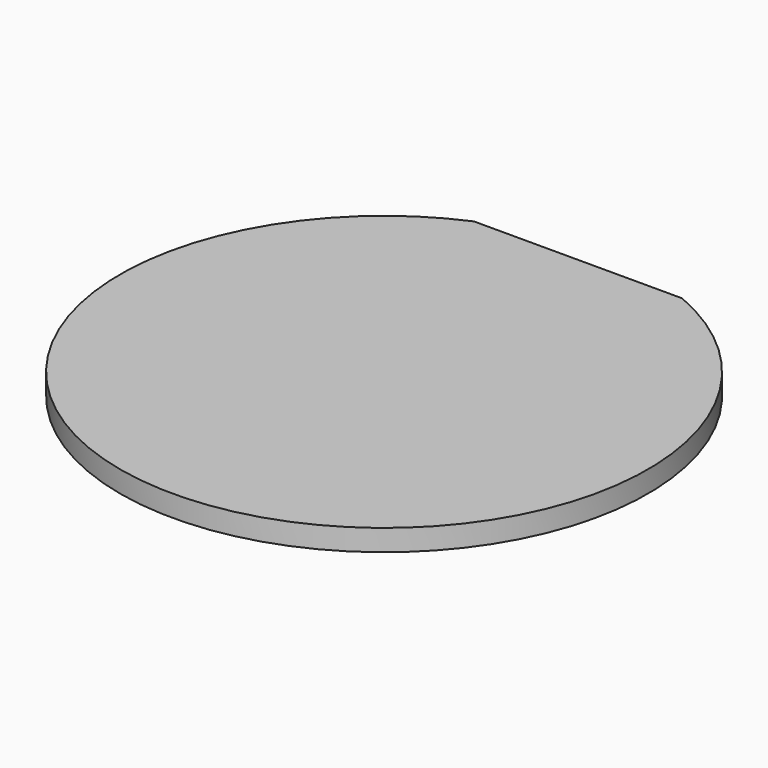
from build123d import *

# Parameters (mm, degrees)
BOX483_W          = 148
BOX483_H          = 20
BOX483_DEPTH      = 34
CYLINDER971_R     = 74
CYLINDER971_DEPTH = 6


with BuildPart() as krychle483:
    # Box483 → Box483 (new body)
    with BuildSketch(Plane(origin=(-74, 68, 38), x_dir=(1, 0, 0), z_dir=(0, 0, 1))):
        with Locations((74, 10)):
            Rectangle(BOX483_W, BOX483_H)
    extrude(amount=BOX483_DEPTH)


with BuildPart() as cut453:
    # Cylinder971 → Cylinder971 (new body)
    with BuildSketch(Plane.XY.offset(65)):
        Circle(CYLINDER971_R)
    extrude(amount=CYLINDER971_DEPTH)

    # Cut453: cut Krychle483
    add(krychle483.part, mode=Mode.SUBTRACT)


with BuildPart() as cut453_1:
    # Cut453 placement: moved
    add(cut453.part.moved(Location((0, 0, 13))))


solid = cut453_1.part
